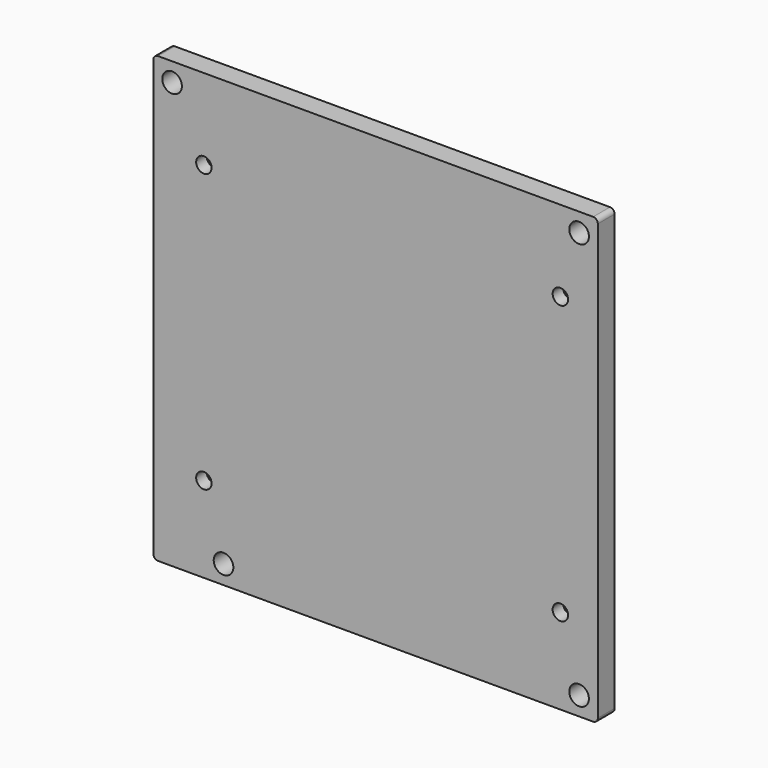
from build123d import *

# Parameters (mm, degrees)
F0_W           = 95
F0_H           = 95
F1_DEPTH       = 4.5
F2_R           = 2.1
F3_DEPTH       = 4.5
F4_R           = 1
F6_D           = 3.3
F6_CSINK_D     = 6.72
F6_CSINK_ANGLE = 90


with BuildPart() as f1:
    # F0 (on Front) → F1 (new body)
    with BuildSketch(Plane.XZ):
        Rectangle(F0_W, F0_H)
    extrude(amount=F1_DEPTH)

    # F2 (on face) → F3 (cut, through all)
    with BuildSketch(Plane.XZ.offset(4.5)):
        with Locations((43.5, 43.5)):
            Circle(F2_R)
        with Locations((43.5, -43.5)):
            Circle(F2_R)
        with Locations((-32.5, -43.5)):
            Circle(F2_R)
        with Locations((-43.5, 43.5)):
            Circle(F2_R)
    extrude(amount=-F3_DEPTH, mode=Mode.SUBTRACT)

    # F4
    f4_edges = [f1.edges().sort_by_distance(p)[0] for p in [
        (-47.5, -2.25, 47.5),
        (47.5, -2.25, 47.5),
        (47.5, -2.25, -47.5),
        (-47.5, -2.25, -47.5),
    ]]
    fillet(f4_edges, radius=F4_R)

    # F6 (through all)
    with Locations(Plane(origin=(0, 0, 0), x_dir=(-1, 0, 0), z_dir=(0, 1, 0))):
        with Locations((-39.5, 30.2), (36.7, 30.2), (36.7, -29.2), (-39.5, -29.2)):
            CounterSinkHole(F6_D / 2, F6_CSINK_D / 2, counter_sink_angle=F6_CSINK_ANGLE)


solid = f1.part
